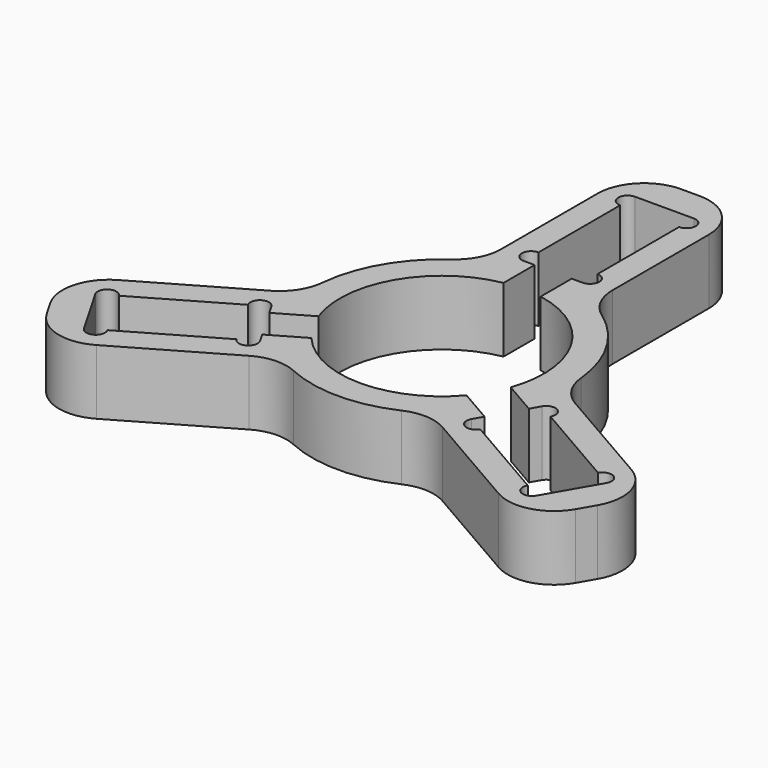
from build123d import *

# Parameters (mm, degrees)
F1_DEPTH = 7


with BuildPart() as f1:
    # F0 (on Top) → F1 (new body)
    with BuildSketch(Plane.XY):
        with BuildLine():
            ThreePointArc((-6, 15.491933), (-6.557383, 13.197776), (-8.105263, 11.415109))
            ThreePointArc((-8.105263, 11.415109), (-12.124356, 7), (-13.938406, 1.311809))
            ThreePointArc((-13.938406, 1.311809), (-14.708301, -0.920027), (-16.416408, -2.549814))
            Line((-16.416408, -2.549814), (-27.681724, -9.053848))
            ThreePointArc((-27.681724, -9.053848), (-30.011353, -12.089879), (-29.511851, -15.883975))
            Line((-29.511851, -15.883975), (-28.511851, -17.616025))
            ThreePointArc((-28.511851, -17.616025), (-25.475819, -19.945655), (-21.681724, -19.446152))
            Line((-21.681724, -19.446152), (-10.416408, -12.942119))
            ThreePointArc((-10.416408, -12.942119), (-8.150918, -12.277749), (-5.833143, -12.726918))
            ThreePointArc((-5.833143, -12.726918), (0, -14), (5.833143, -12.726918))
            ThreePointArc((5.833143, -12.726918), (8.150918, -12.277749), (10.416408, -12.942119))
            Line((10.416408, -12.942119), (21.681724, -19.446152))
            ThreePointArc((21.681724, -19.446152), (25.475819, -19.945655), (28.511851, -17.616025))
            Line((28.511851, -17.616025), (29.511851, -15.883975))
            ThreePointArc((29.511851, -15.883975), (30.011353, -12.089879), (27.681724, -9.053848))
            Line((27.681724, -9.053848), (16.416408, -2.549814))
            ThreePointArc((16.416408, -2.549814), (14.708301, -0.920027), (13.938406, 1.311809))
            ThreePointArc((13.938406, 1.311809), (12.124356, 7), (8.105263, 11.415109))
            ThreePointArc((8.105263, 11.415109), (6.557383, 13.197776), (6, 15.491933))
            Line((6, 15.491933), (6, 28.5))
            ThreePointArc((6, 28.5), (4.535534, 32.035534), (1, 33.5))
            Line((1, 33.5), (-1, 33.5))
            ThreePointArc((-1, 33.5), (-4.535534, 32.035534), (-6, 28.5))
            Line((-6, 28.5), (-6, 15.491933))
        make_face()
        with BuildLine():
            ThreePointArc((-10.367497, -3.676276), (-9.526279, 5.5), (-2, 10.816654))
            Line((-2, 10.816654), (-2, 15))
            Line((-2, 15), (-3.175, 15))
            ThreePointArc((-3.175, 15), (-4.175, 16), (-3.175, 17))
            Line((-3.175, 17), (-3.175, 28))
            ThreePointArc((-3.175, 28), (-4.175, 29), (-3.175, 30))
            Line((-3.175, 30), (3.175, 30))
            ThreePointArc((3.175, 30), (4.175, 29), (3.175, 28))
            Line((3.175, 28), (3.175, 17))
            ThreePointArc((3.175, 17), (4.175, 16), (3.175, 15))
            Line((3.175, 15), (2, 15))
            Line((2, 15), (2, 10.816654))
            ThreePointArc((2, 10.816654), (9.526279, 5.5), (10.367497, -3.676276))
            Line((10.367497, -3.676276), (13.990381, -5.767949))
            Line((13.990381, -5.767949), (14.577881, -4.750369))
            ThreePointArc((14.577881, -4.750369), (15.943906, -4.384344), (16.309932, -5.750369))
            Line((16.309932, -5.750369), (25.836211, -11.250369))
            ThreePointArc((25.836211, -11.250369), (27.202237, -10.884344), (27.568262, -12.250369))
            Line((27.568262, -12.250369), (24.393262, -17.749631))
            ThreePointArc((24.393262, -17.749631), (23.027237, -18.115656), (22.661211, -16.749631))
            Line((22.661211, -16.749631), (13.134932, -11.249631))
            ThreePointArc((13.134932, -11.249631), (11.768906, -11.615656), (11.402881, -10.249631))
            Line((11.402881, -10.249631), (11.990381, -9.232051))
            Line((11.990381, -9.232051), (8.367497, -7.140378))
            ThreePointArc((8.367497, -7.140378), (0, -11), (-8.367497, -7.140378))
            Line((-8.367497, -7.140378), (-11.990381, -9.232051))
            Line((-11.990381, -9.232051), (-11.402881, -10.249631))
            ThreePointArc((-11.402881, -10.249631), (-11.768906, -11.615656), (-13.134932, -11.249631))
            Line((-13.134932, -11.249631), (-22.661211, -16.749631))
            ThreePointArc((-22.661211, -16.749631), (-23.027237, -18.115656), (-24.393262, -17.749631))
            Line((-24.393262, -17.749631), (-27.568262, -12.250369))
            ThreePointArc((-27.568262, -12.250369), (-27.202237, -10.884344), (-25.836211, -11.250369))
            Line((-25.836211, -11.250369), (-16.309932, -5.750369))
            ThreePointArc((-16.309932, -5.750369), (-15.943906, -4.384344), (-14.577881, -4.750369))
            Line((-14.577881, -4.750369), (-13.990381, -5.767949))
            Line((-13.990381, -5.767949), (-10.367497, -3.676276))
        make_face(mode=Mode.SUBTRACT)
    extrude(amount=F1_DEPTH)


solid = f1.part
